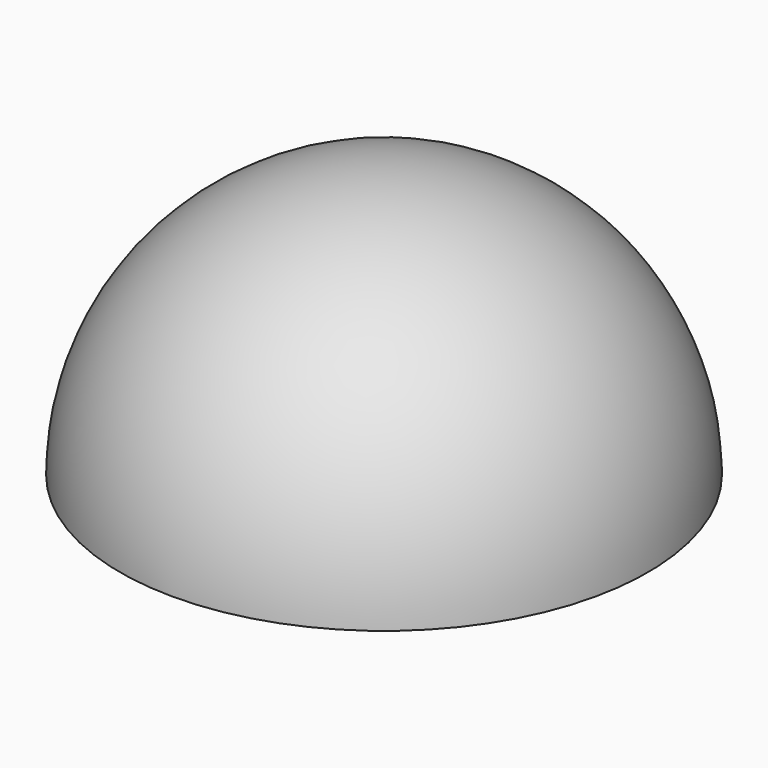
from build123d import *

# Parameters (mm, degrees)
F1_ANGLE = -180


with BuildPart() as f1:
    # F0 (on Top) → F1 (revolve)
    with BuildSketch(Plane.XY):
        with BuildLine():
            Line((0, 152.4), (0, -152.4))
            ThreePointArc((0, -152.4), (152.4, 0), (0, 152.4))
        make_face()
    revolve(axis=Axis((0, 0, 0), (0, 1, 0)), revolution_arc=F1_ANGLE)


solid = f1.part
